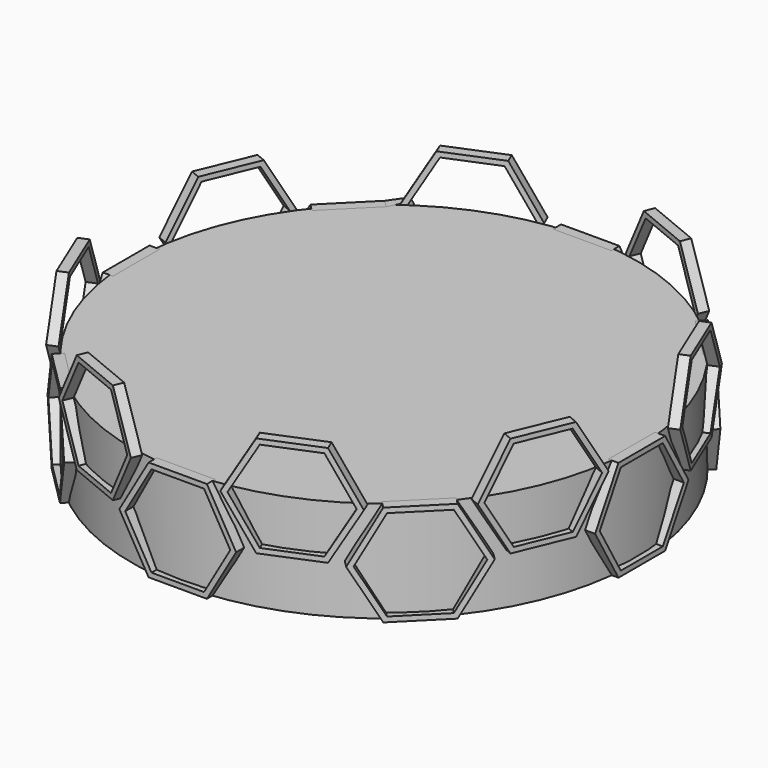
from build123d import *

# Parameters (mm, degrees)
F1_DEPTH      = 25.4
F5_DEPTH      = 1.27
F5_DEPTH_BACK = 1.27
F7_COUNT      = 8
F9_ANGLE      = 22.5
F8_FACE_W     = 2.54
F8_FACE_H     = 14.6646968374
F7_FACE_W     = 2.54
F7_FACE_H     = 14.6646968374


with BuildPart() as f1:
    # F0 (on Top) → F1 (new body)
    with BuildSketch(Plane.XY):
        with BuildLine():
            Line((-60.8851524776, -18.0346391087), (19.6630734682, 60.3789163681))
            ThreePointArc((19.6630734682, 60.3789163681), (-44.2943153248, 45.500149779), (-60.8851524776, -18.0346391087))
        make_face()
        with BuildLine():
            ThreePointArc((-60.8851524776, -18.0346391087), (9.1116084659, -62.842888151), (63.5, 0))
            ThreePointArc((63.5, 0), (51.3850910539, 37.3071362796), (19.6630734682, 60.3789163681))
            Line((19.6630734682, 60.3789163681), (-60.8851524776, -18.0346391087))
        make_face()
    extrude(amount=F1_DEPTH)


with BuildPart() as f5:
    # F4 (on line) → F5 (new body, two sides)
    with BuildSketch(Plane.YZ.offset(63.5)) as f5_sk:
        Polygon((14.6646968374, 12.7), (7.3323484187, 25.4), (-7.3323484187, 25.4), (-14.6646968374, 12.7), (-7.3323484187, 0), (7.3323484187, 0), align=None)
        Polygon((13.1982271537, 12.7), (6.5991135768, 1.27), (-6.5991135768, 1.27), (-13.1982271537, 12.7), (-6.5991135768, 24.13), (6.5991135768, 24.13), align=None, mode=Mode.SUBTRACT)
    extrude(amount=F5_DEPTH)
    extrude(f5_sk.sketch, amount=-F5_DEPTH_BACK)


with BuildPart() as f7_1:
    # F7: instance of F5
    add(f5.part.rotate(Axis((0, 0, 13.6247575283), (0, 0, 1)), 1 * 360 / F7_COUNT))


with BuildPart() as f7_2:
    # F7: instance of F5
    add(f5.part.rotate(Axis((0, 0, 13.6247575283), (0, 0, 1)), 2 * 360 / F7_COUNT))


with BuildPart() as f7_3:
    # F7: instance of F5
    add(f5.part.rotate(Axis((0, 0, 13.6247575283), (0, 0, 1)), 3 * 360 / F7_COUNT))


with BuildPart() as f7_4:
    # F7: instance of F5
    add(f5.part.rotate(Axis((0, 0, 13.6247575283), (0, 0, 1)), 4 * 360 / F7_COUNT))


with BuildPart() as f7_5:
    # F7: instance of F5
    add(f5.part.rotate(Axis((0, 0, 13.6247575283), (0, 0, 1)), 5 * 360 / F7_COUNT))


with BuildPart() as f7_6:
    # F7: instance of F5
    add(f5.part.rotate(Axis((0, 0, 13.6247575283), (0, 0, 1)), 6 * 360 / F7_COUNT))


with BuildPart() as f7_7:
    # F7: instance of F5
    add(f5.part.rotate(Axis((0, 0, 13.6247575283), (0, 0, 1)), 7 * 360 / F7_COUNT))


with BuildPart() as f8_1:
    # F8: copy of F7_2
    add(f7_2.part.moved(Location((0, 0, 12.7))))


with BuildPart() as f8_2:
    # F8: copy of F7_1
    add(f7_1.part.moved(Location((0, 0, 12.7))))


with BuildPart() as f8_3:
    # F8: copy of F7_3
    add(f7_3.part.moved(Location((0, 0, 12.7))))


with BuildPart() as f8_4:
    # F8: copy of F5
    add(f5.part.moved(Location((0, 0, 12.7))))


with BuildPart() as f8_5:
    # F8: copy of F7_4
    add(f7_4.part.moved(Location((0, 0, 12.7))))


with BuildPart() as f8_6:
    # F8: copy of F7_5
    add(f7_5.part.moved(Location((0, 0, 12.7))))


with BuildPart() as f8_7:
    # F8: copy of F7_6
    add(f7_6.part.moved(Location((0, 0, 12.7))))


with BuildPart() as f8_8:
    # F8: copy of F7_7
    add(f7_7.part.moved(Location((0, 0, 12.7))))


with BuildPart() as f8_3_1:
    # F9: moved
    add(f8_3.part.rotate(Axis((0, 0, 13.6247575283), (0, 0, 1)), F9_ANGLE))


with BuildPart() as f8_1_1:
    # F9: moved
    add(f8_1.part.rotate(Axis((0, 0, 13.6247575283), (0, 0, 1)), F9_ANGLE))

    # F8_face (on face) → F10 section 0
    with BuildSketch(Plane(origin=(-34.4617078991, 54.4573979242, 19.05), x_dir=(0.3826834324, -0.9238795325, 0), z_dir=(-0.8001031452, -0.331413574, -0.5))):
        Rectangle(F8_FACE_W, F8_FACE_H)
    # F7_face (on face) → F10 section 1
    with BuildSketch(Plane(origin=(-37.124150672, 52.6784105387, 19.05), x_dir=(-0.7071067812, 0.7071067812, 0), z_dir=(0.6123724357, 0.6123724357, 0.5))):
        Rectangle(F7_FACE_W, F7_FACE_H)
    loft()


with BuildPart() as f8_2_1:
    # F9: moved
    add(f8_2.part.rotate(Axis((0, 0, 13.6247575283), (0, 0, 1)), F9_ANGLE))


with BuildPart() as f8_4_1:
    # F9: moved
    add(f8_4.part.rotate(Axis((0, 0, 13.6247575283), (0, 0, 1)), F9_ANGLE))


with BuildPart() as f8_8_1:
    # F9: moved
    add(f8_8.part.rotate(Axis((0, 0, 13.6247575283), (0, 0, 1)), F9_ANGLE))


with BuildPart() as f8_7_1:
    # F9: moved
    add(f8_7.part.rotate(Axis((0, 0, 13.6247575283), (0, 0, 1)), F9_ANGLE))


with BuildPart() as f8_6_1:
    # F9: moved
    add(f8_6.part.rotate(Axis((0, 0, 13.6247575283), (0, 0, 1)), F9_ANGLE))


with BuildPart() as f8_5_1:
    # F9: moved
    add(f8_5.part.rotate(Axis((0, 0, 13.6247575283), (0, 0, 1)), F9_ANGLE))


solid = Compound([f1.part, f5.part, f7_1.part, f7_2.part, f7_3.part, f7_4.part, f7_5.part, f7_6.part, f7_7.part, f8_3_1.part, f8_1_1.part, f8_2_1.part, f8_4_1.part, f8_8_1.part, f8_7_1.part, f8_6_1.part, f8_5_1.part])
